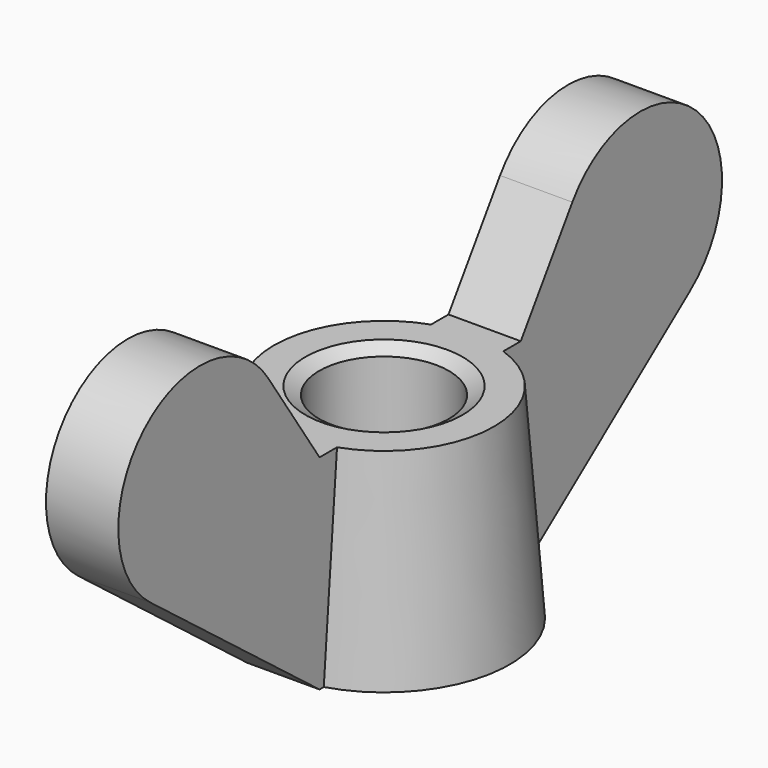
from build123d import *

# Parameters (mm, degrees)
PAD_DEPTH = 1.15


with BuildPart() as pad:
    # Sketch001 → Pad (new body, symmetric)
    with BuildSketch(Plane.YZ):
        with BuildLine():
            Line((2.5, 0), (2.5, 6.5))
            Line((2.5, 6.5), (4, 6.5))
            Line((4, 6.5), (6.050198, 9.559301))
            ThreePointArc((10.730567, 5.173209), (10.972336, 10.121439), (6.050198, 9.559301))
            Line((4, 0), (10.730567, 5.173209))
            Line((2.5, 0), (4, 0))
        make_face()
        with BuildLine():
            Line((-10.730567, 5.173209), (-4, 0))
            Line((-4, 0), (-2.5, 0))
            Line((-2.5, 0), (-2.5, 6.5))
            Line((-2.5, 6.5), (-4, 6.5))
            Line((-4, 6.5), (-6.050198, 9.559301))
            ThreePointArc((-6.050198, 9.559301), (-10.972336, 10.121439), (-10.730567, 5.173209))
        make_face()
    extrude(amount=PAD_DEPTH, both=True)


with BuildPart() as obj1:
    # Sketch → Revolution (revolve)
    with BuildSketch(Plane.YZ):
        Polygon((2.5, 0), (2.065, 0.251147), (2.065, 6.248853), (2.5, 6.5), (3.5, 6.5), (4, 0), align=None)
    revolve(axis=Axis((0, 0, 0), (0, 0, 1)))

    # Fusion: union Pad
    add(pad.part)


solid = obj1.part
